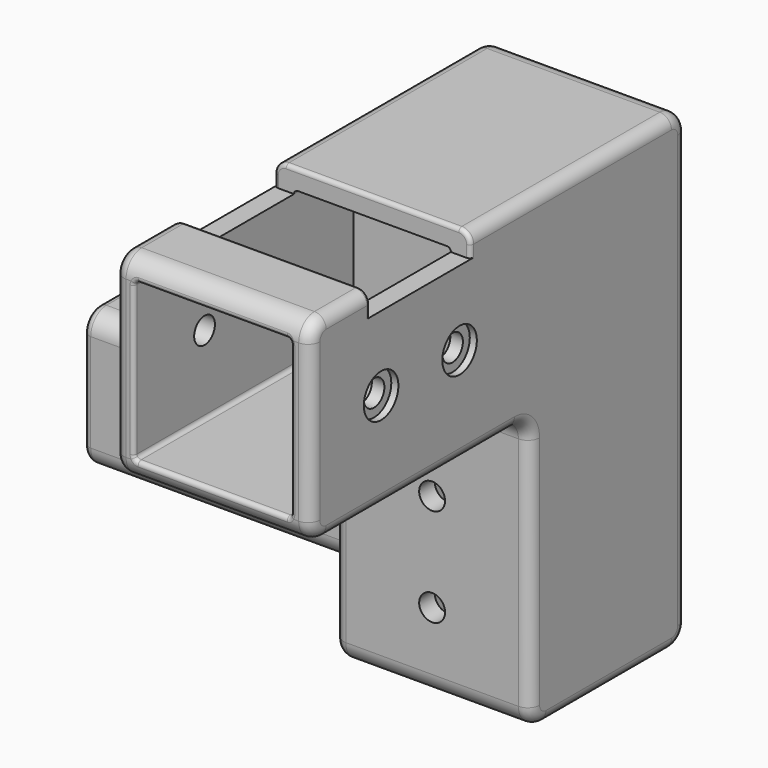
from build123d import *

# Parameters (mm, degrees)
PAD_DEPTH           = 50
FILLET_R            = 3
FILLET001_R         = 3
PAD001_DEPTH        = 70
FILLET002_R         = 2
FILLET003_R         = 1
SKETCH002_W         = 32
SKETCH002_H         = 6
POCKET_DEPTH        = 120.001
POCKET001_DEPTH     = 70
HOLE_D              = 6.6
HOLE_CBORE_D        = 11
HOLE_CBORE_DEPTH    = 1.8
HOLE001_D           = 6.6
HOLE001_CBORE_D     = 11
HOLE001_CBORE_DEPTH = 1.8
POCKET002_DEPTH     = 70
HOLE002_D           = 6.6
HOLE002_CBORE_D     = 11
HOLE002_CBORE_DEPTH = 1.8
HOLE003_D           = 6.6
HOLE003_CBORE_D     = 11
HOLE003_CBORE_DEPTH = 1.8
FILLET004_R         = 1
FILLET005_R         = 1
FILLET006_R         = 1


with BuildPart() as part:
    # Sketch → Pad (new body)
    with BuildSketch(Plane.YZ):
        with BuildLine():
            Line((-5, 0), (-65, 0))
            ThreePointArc((-70, 5), (-68.535534, 1.464466), (-65, 0))
            Line((-70, 5), (-70, 45))
            ThreePointArc((-65, 50), (-68.535534, 48.535534), (-70, 45))
            Line((-65, 50), (45, 50))
            ThreePointArc((50, 45), (48.535534, 48.535534), (45, 50))
            Line((50, 45), (50, -65))
            ThreePointArc((45, -70), (48.535534, -68.535534), (50, -65))
            Line((45, -70), (5, -70))
            ThreePointArc((0, -65), (1.464466, -68.535534), (5, -70))
            Line((0, -65), (0, -5))
            ThreePointArc((0, -5), (-1.464466, -1.464466), (-5, 0))
        make_face()
    extrude(amount=PAD_DEPTH)

    # Fillet
    fillet_edges = [part.edges().sort_by_distance(p)[0] for p in [
        (0, -10, 50),
    ]]
    fillet(fillet_edges, radius=FILLET_R)

    # Fillet001
    fillet001_edges = [part.edges().sort_by_distance(p)[0] for p in [
        (50, -10, 50),
    ]]
    fillet(fillet001_edges, radius=FILLET001_R)

    # Sketch001 → Pad001 (join)
    with BuildSketch(Plane(origin=(0, 0, 0), x_dir=(0, 1, 0), z_dir=(-1, 0, 0))):
        with BuildLine():
            Line((12.5, 52.5), (37.5, 52.5))
            ThreePointArc((42.5, 47.5), (41.035534, 51.035534), (37.5, 52.5))
            Line((42.5, 47.5), (42.5, 22.5))
            ThreePointArc((37.5, 17.5), (41.035534, 18.964466), (42.5, 22.5))
            Line((37.5, 17.5), (12.5, 17.5))
            ThreePointArc((7.5, 22.5), (8.964466, 18.964466), (12.5, 17.5))
            Line((7.5, 22.5), (7.5, 47.5))
            ThreePointArc((12.5, 52.5), (8.964466, 51.035534), (7.5, 47.5))
        make_face()
        with BuildLine():
            Line((13.5, 22.5), (36.5, 22.5))
            ThreePointArc((36.5, 22.5), (37.207107, 22.792893), (37.5, 23.5))
            Line((37.5, 23.5), (37.5, 46.5))
            ThreePointArc((37.5, 46.5), (37.207107, 47.207107), (36.5, 47.5))
            Line((36.5, 47.5), (13.5, 47.5))
            ThreePointArc((13.5, 47.5), (12.792893, 47.207107), (12.5, 46.5))
            Line((12.5, 46.5), (12.5, 23.5))
            ThreePointArc((12.5, 23.5), (12.792893, 22.792893), (13.5, 22.5))
        make_face(mode=Mode.SUBTRACT)
    extrude(amount=PAD001_DEPTH)

    # Fillet002
    fillet002_edges = [part.edges().sort_by_distance(p)[0] for p in [
        (-70, 25, -17.5),
    ]]
    fillet(fillet002_edges, radius=FILLET002_R)

    # Fillet003
    fillet003_edges = [part.edges().sort_by_distance(p)[0] for p in [
        (-70, 25, -47.5),
    ]]
    fillet(fillet003_edges, radius=FILLET003_R)

    # Sketch002 → Pocket (cut, through all)
    with BuildSketch(Plane.YZ.offset(50)):
        with Locations((-35, 47)):
            Rectangle(SKETCH002_W, SKETCH002_H)
    extrude(amount=-POCKET_DEPTH, mode=Mode.SUBTRACT)

    # Sketch004 → Pocket001 (cut)
    with BuildSketch(Plane(origin=(0, -70, 0), x_dir=(0, 0, -1), z_dir=(0, -1, 0))):
        with BuildLine():
            Line((-6, 5), (-44, 5))
            ThreePointArc((-45, 6), (-44.707107, 5.292893), (-44, 5))
            Line((-45, 6), (-45, 44))
            ThreePointArc((-44, 45), (-44.707107, 44.707107), (-45, 44))
            Line((-44, 45), (-6, 45))
            ThreePointArc((-5, 44), (-5.292893, 44.707107), (-6, 45))
            Line((-5, 44), (-5, 6))
            ThreePointArc((-6, 5), (-5.292893, 5.292893), (-5, 6))
        make_face()
    extrude(amount=-POCKET001_DEPTH, mode=Mode.SUBTRACT)

    # Hole (through all)
    with Locations(Plane.YZ.offset(50)):
        with Locations((-22.5, 25), (-47.5, 25)):
            CounterBoreHole(HOLE_D / 2, HOLE_CBORE_D / 2, HOLE_CBORE_DEPTH)

    # Hole001 (through all)
    with Locations(Plane.YX):
        with Locations((-35, 25)):
            CounterBoreHole(HOLE001_D / 2, HOLE001_CBORE_D / 2, HOLE001_CBORE_DEPTH)

    # Sketch007 → Pocket002 (cut)
    with BuildSketch(Plane.YX.offset(70)):
        with BuildLine():
            Line((6, 5), (44, 5))
            ThreePointArc((44, 5), (44.707107, 5.292893), (45, 6))
            Line((45, 6), (45, 44))
            ThreePointArc((45, 44), (44.707107, 44.707107), (44, 45))
            Line((44, 45), (6, 45))
            ThreePointArc((6, 45), (5.292893, 44.707107), (5, 44))
            Line((5, 44), (5, 6))
            ThreePointArc((5, 6), (5.292893, 5.292893), (6, 5))
        make_face()
    extrude(amount=-POCKET002_DEPTH, mode=Mode.SUBTRACT)

    # Hole002 (through all)
    with Locations(Plane.ZX.offset(50)):
        with Locations((-25, 25), (-50, 25)):
            CounterBoreHole(HOLE002_D / 2, HOLE002_CBORE_D / 2, HOLE002_CBORE_DEPTH)

    # Hole003 (through all)
    with Locations(Plane.ZX.offset(42.5)):
        with Locations((-35, -35)):
            CounterBoreHole(HOLE003_D / 2, HOLE003_CBORE_D / 2, HOLE003_CBORE_DEPTH)

    # Fillet004
    fillet004_edges = [part.edges().sort_by_distance(p)[0] for p in [
        (25, -19, 50),
        (25, -51, 50),
    ]]
    fillet(fillet004_edges, radius=FILLET004_R)

    # Fillet005
    fillet005_edges = [part.edges().sort_by_distance(p)[0] for p in [
        (45, -70, 25),
    ]]
    fillet(fillet005_edges, radius=FILLET005_R)

    # Fillet006
    fillet006_edges = [part.edges().sort_by_distance(p)[0] for p in [
        (45, 25, -70),
    ]]
    fillet(fillet006_edges, radius=FILLET006_R)


solid = part.part
